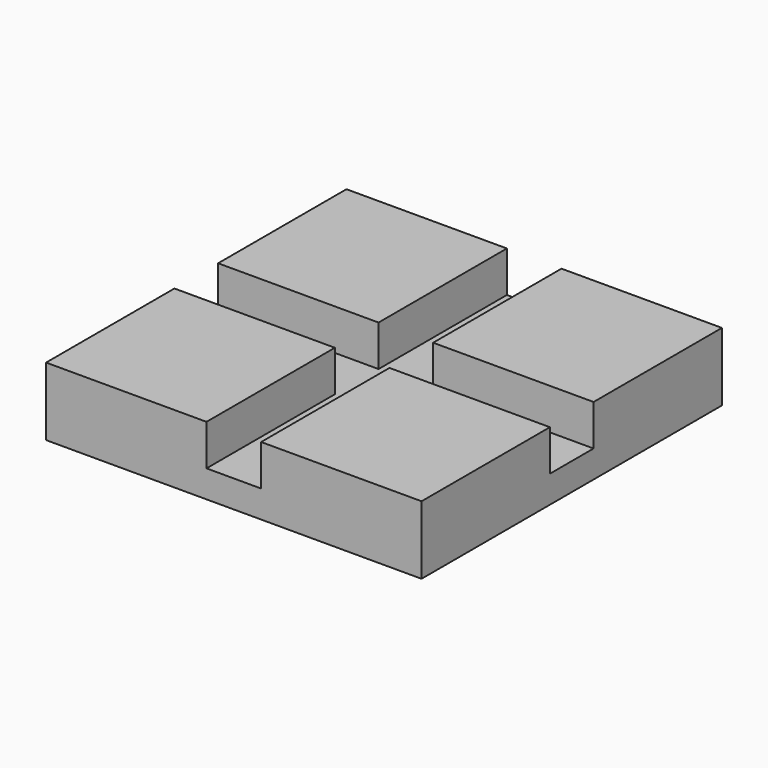
from build123d import *

# Parameters (mm, degrees)
F0_W     = 59.69
F0_H     = 59.69
F1_DEPTH = 25.4
F3_DEPTH = 10.16


with BuildPart() as f1:
    # F0 (on Top) → F1 (new body)
    with BuildSketch(Plane.XY):
        with Locations((40.005, 40.005)):
            Rectangle(F0_W, F0_H)
    extrude(amount=F1_DEPTH)



with BuildPart() as f1b:
    # F0 (on Top) → F1, piece 2 (new body)
    with BuildSketch(Plane.XY):
        with Locations((40.005, -40.005)):
            Rectangle(F0_W, F0_H)
    extrude(amount=F1_DEPTH)


with BuildPart() as f1c:
    # F0 (on Top) → F1, piece 3 (new body)
    with BuildSketch(Plane.XY):
        with Locations((-40.005, -40.005)):
            Rectangle(F0_W, F0_H)
    extrude(amount=F1_DEPTH)


with BuildPart() as f1d:
    # F0 (on Top) → F1, piece 4 (new body)
    with BuildSketch(Plane.XY):
        with Locations((-40.005, 40.005)):
            Rectangle(F0_W, F0_H)
    extrude(amount=F1_DEPTH)


with BuildPart() as f1_1:
    add(f1.part)

    add(f1b.part)  # F3 merges F1b

    add(f1c.part)  # F3 merges F1c

    add(f1d.part)  # F3 merges F1d
    # F2 (on Top) → F3 (join)
    with BuildSketch(Plane.XY):
        Polygon((10.16, 69.85), (-10.16, 69.85), (-10.16, 10.16), (-69.85, 10.16), (-69.85, -10.16), (-10.16, -10.16), (-10.16, -69.85), (10.16, -69.85), (10.16, -10.16), (69.85, -10.16), (69.85, 10.16), (10.16, 10.16), align=None)
    extrude(amount=F3_DEPTH)


solid = f1_1.part
